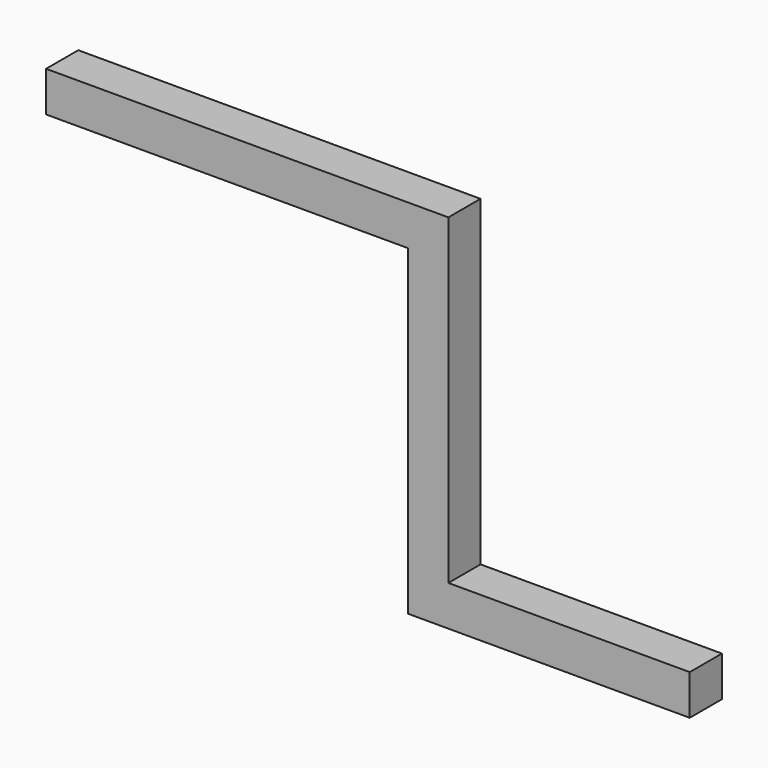
from build123d import *

# Parameters (mm, degrees)
F1_DEPTH = 25
F2_DEPTH = 20
F3_DEPTH = 15


with BuildPart() as f1:
    # F0 (on Front) → F1 (new body)
    with BuildSketch(Plane.XZ):
        Polygon((7.5449606204, 50.6978626826), (-37.4550393796, 50.6978626826), (-37.4550393796, 45.6978626826), (7.5449606204, 45.6978626826), (7.5449606204, 5.6978626826), (12.5449606204, 5.6978626826), (27.5449606204, 5.6978626826), (27.5449606204, 10.6978626826), (12.5449606204, 10.6978626826), (12.5449606204, 50.6978626826), align=None)
    extrude(amount=F1_DEPTH)

    # F2 (cut): a face of the model
    f2_faces = [f1.faces().sort_by_distance(p)[0] for p in [
        (-36.6644699645, 0, 48.1978626826),
    ]]
    extrude(f2_faces, amount=-F2_DEPTH, mode=Mode.SUBTRACT)

    # F3 (add): a face of the model
    f3_faces = [f1.faces().sort_by_distance(p)[0] for p in [
        (27.5449606204, -22.5, 8.1978626826),
    ]]
    extrude(f3_faces, amount=F3_DEPTH)


solid = f1.part
